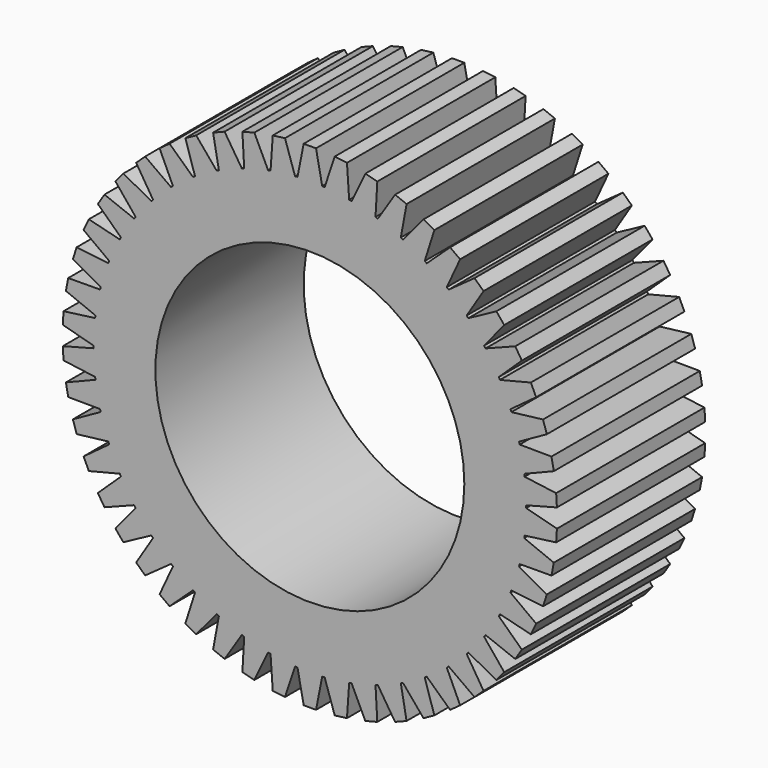
from build123d import *

# Parameters (mm, degrees)
F1_DEPTH = 15
F2_R     = 12.5
F3_DEPTH = 15.001


with BuildPart() as f1:
    # F0 (on Front) → F1 (new body)
    with BuildSketch(Plane.XZ):
        with BuildLine():
            ThreePointArc((17.499716, -0.099625), (17.499929, -0.049813), (17.5, 0))
            ThreePointArc((17.5, 0), (17.499929, 0.049813), (17.499716, 0.099625))
            ThreePointArc((17.499716, 0.099625), (17.465468, 1.098834), (17.374212, 2.094457))
            ThreePointArc((17.374212, 2.094457), (17.362007, 2.193332), (17.34924, 2.292135))
            ThreePointArc((17.34924, 2.292135), (17.190027, 3.279173), (16.974706, 4.255508))
            ThreePointArc((16.974706, 4.255508), (16.950205, 4.352073), (16.925155, 4.448497))
            ThreePointArc((16.925155, 4.448497), (16.643489, 5.407797), (16.307499, 6.349446))
            ThreePointArc((16.307499, 6.349446), (16.271089, 6.44218), (16.23415, 6.534704))
            ThreePointArc((16.23415, 6.534704), (15.834473, 7.451138), (15.383113, 8.343251))
            ThreePointArc((15.383113, 8.343251), (15.335367, 8.430689), (15.287124, 8.517855))
            ThreePointArc((15.287124, 8.517855), (14.775739, 9.376969), (14.216126, 10.205477))
            ThreePointArc((14.216126, 10.205477), (14.157797, 10.286242), (14.09901, 10.366673))
            ThreePointArc((14.09901, 10.366673), (13.483982, 11.15492), (12.824942, 11.906757))
            ThreePointArc((12.824942, 11.906757), (12.756951, 11.979574), (12.688546, 12.052004))
            ThreePointArc((12.688546, 12.052004), (11.979574, 12.756951), (11.231501, 13.42026))
            ThreePointArc((11.231501, 13.42026), (11.15492, 13.483982), (11.077977, 13.547267))
            ThreePointArc((11.077977, 13.547267), (10.286242, 14.157797), (9.460933, 14.722118))
            ThreePointArc((9.460933, 14.722118), (9.376969, 14.775739), (9.292701, 14.828881))
            ThreePointArc((9.292701, 14.828881), (8.430689, 15.335367), (7.54116, 15.791799))
            ThreePointArc((7.54116, 15.791799), (7.451138, 15.834473), (7.360874, 15.876635))
            ThreePointArc((7.360874, 15.876635), (6.44218, 16.271089), (5.502459, 16.612434))
            ThreePointArc((5.502459, 16.612434), (5.407797, 16.643489), (5.312961, 16.674005))
            ThreePointArc((5.312961, 16.674005), (4.352073, 16.950205), (3.37698, 17.171081))
            ThreePointArc((3.37698, 17.171081), (3.279173, 17.190027), (3.18126, 17.208416))
            ThreePointArc((3.18126, 17.208416), (2.193332, 17.362007), (1.198245, 17.458929))
            ThreePointArc((1.198245, 17.458929), (1.098834, 17.465468), (0.999388, 17.47144))
            ThreePointArc((0.999388, 17.47144), (0, 17.5), (-0.999388, 17.47144))
            ThreePointArc((-0.999388, 17.47144), (-1.098834, 17.465468), (-1.198245, 17.458929))
            ThreePointArc((-1.198245, 17.458929), (-2.193332, 17.362007), (-3.18126, 17.208416))
            ThreePointArc((-3.18126, 17.208416), (-3.279173, 17.190027), (-3.37698, 17.171081))
            ThreePointArc((-3.37698, 17.171081), (-4.352073, 16.950205), (-5.312961, 16.674005))
            ThreePointArc((-5.312961, 16.674005), (-5.407797, 16.643489), (-5.502459, 16.612434))
            ThreePointArc((-5.502459, 16.612434), (-6.44218, 16.271089), (-7.360874, 15.876635))
            ThreePointArc((-7.360874, 15.876635), (-7.451138, 15.834473), (-7.54116, 15.791799))
            ThreePointArc((-7.54116, 15.791799), (-8.430689, 15.335367), (-9.292701, 14.828881))
            ThreePointArc((-9.292701, 14.828881), (-9.376969, 14.775739), (-9.460933, 14.722118))
            ThreePointArc((-9.460933, 14.722118), (-10.286242, 14.157797), (-11.077977, 13.547267))
            ThreePointArc((-11.077977, 13.547267), (-11.15492, 13.483982), (-11.231501, 13.42026))
            ThreePointArc((-11.231501, 13.42026), (-11.979574, 12.756951), (-12.688546, 12.052004))
            ThreePointArc((-12.688546, 12.052004), (-12.756951, 11.979574), (-12.824942, 11.906757))
            ThreePointArc((-12.824942, 11.906757), (-13.483982, 11.15492), (-14.09901, 10.366673))
            ThreePointArc((-14.09901, 10.366673), (-14.157797, 10.286242), (-14.216126, 10.205477))
            ThreePointArc((-14.216126, 10.205477), (-14.775739, 9.376969), (-15.287124, 8.517855))
            ThreePointArc((-15.287124, 8.517855), (-15.335367, 8.430689), (-15.383113, 8.343251))
            ThreePointArc((-15.383113, 8.343251), (-15.834473, 7.451138), (-16.23415, 6.534704))
            ThreePointArc((-16.23415, 6.534704), (-16.271089, 6.44218), (-16.307499, 6.349446))
            ThreePointArc((-16.307499, 6.349446), (-16.643489, 5.407797), (-16.925155, 4.448497))
            ThreePointArc((-16.925155, 4.448497), (-16.950205, 4.352073), (-16.974706, 4.255508))
            ThreePointArc((-16.974706, 4.255508), (-17.190027, 3.279173), (-17.34924, 2.292135))
            ThreePointArc((-17.34924, 2.292135), (-17.362007, 2.193332), (-17.374212, 2.094457))
            ThreePointArc((-17.374212, 2.094457), (-17.465468, 1.098834), (-17.499716, 0.099625))
            ThreePointArc((-17.499716, 0.099625), (-17.5, 0), (-17.499716, -0.099625))
            ThreePointArc((-17.499716, -0.099625), (-17.465468, -1.098834), (-17.374212, -2.094457))
            ThreePointArc((-17.374212, -2.094457), (-17.362007, -2.193332), (-17.34924, -2.292135))
            ThreePointArc((-17.34924, -2.292135), (-17.190027, -3.279173), (-16.974706, -4.255508))
            ThreePointArc((-16.974706, -4.255508), (-16.950205, -4.352073), (-16.925155, -4.448497))
            ThreePointArc((-16.925155, -4.448497), (-16.643489, -5.407797), (-16.307499, -6.349446))
            ThreePointArc((-16.307499, -6.349446), (-16.271089, -6.44218), (-16.23415, -6.534704))
            ThreePointArc((-16.23415, -6.534704), (-15.834473, -7.451138), (-15.383113, -8.343251))
            ThreePointArc((-15.383113, -8.343251), (-15.335367, -8.430689), (-15.287124, -8.517855))
            ThreePointArc((-15.287124, -8.517855), (-14.775739, -9.376969), (-14.216126, -10.205477))
            ThreePointArc((-14.216126, -10.205477), (-14.157797, -10.286242), (-14.09901, -10.366673))
            ThreePointArc((-14.09901, -10.366673), (-13.483982, -11.15492), (-12.824942, -11.906757))
            ThreePointArc((-12.824942, -11.906757), (-12.756951, -11.979574), (-12.688546, -12.052004))
            ThreePointArc((-12.688546, -12.052004), (-11.979574, -12.756951), (-11.231501, -13.42026))
            ThreePointArc((-11.231501, -13.42026), (-11.15492, -13.483982), (-11.077977, -13.547267))
            ThreePointArc((-11.077977, -13.547267), (-10.286242, -14.157797), (-9.460933, -14.722118))
            ThreePointArc((-9.460933, -14.722118), (-9.376969, -14.775739), (-9.292701, -14.828881))
            ThreePointArc((-9.292701, -14.828881), (-8.430689, -15.335367), (-7.54116, -15.791799))
            ThreePointArc((-7.54116, -15.791799), (-7.451138, -15.834473), (-7.360874, -15.876635))
            ThreePointArc((-7.360874, -15.876635), (-6.44218, -16.271089), (-5.502459, -16.612434))
            ThreePointArc((-5.502459, -16.612434), (-5.407797, -16.643489), (-5.312961, -16.674005))
            ThreePointArc((-5.312961, -16.674005), (-4.352073, -16.950205), (-3.37698, -17.171081))
            ThreePointArc((-3.37698, -17.171081), (-3.279173, -17.190027), (-3.18126, -17.208416))
            ThreePointArc((-3.18126, -17.208416), (-2.193332, -17.362007), (-1.198245, -17.458929))
            ThreePointArc((-1.198245, -17.458929), (-1.098834, -17.465468), (-0.999388, -17.47144))
            ThreePointArc((-0.999388, -17.47144), (0, -17.5), (0.999388, -17.47144))
            ThreePointArc((0.999388, -17.47144), (1.098834, -17.465468), (1.198245, -17.458929))
            ThreePointArc((1.198245, -17.458929), (2.193332, -17.362007), (3.18126, -17.208416))
            ThreePointArc((3.18126, -17.208416), (3.279173, -17.190027), (3.37698, -17.171081))
            ThreePointArc((3.37698, -17.171081), (4.352073, -16.950205), (5.312961, -16.674005))
            ThreePointArc((5.312961, -16.674005), (5.407797, -16.643489), (5.502459, -16.612434))
            ThreePointArc((5.502459, -16.612434), (6.44218, -16.271089), (7.360874, -15.876635))
            ThreePointArc((7.360874, -15.876635), (7.451138, -15.834473), (7.54116, -15.791799))
            ThreePointArc((7.54116, -15.791799), (8.430689, -15.335367), (9.292701, -14.828881))
            ThreePointArc((9.292701, -14.828881), (9.376969, -14.775739), (9.460933, -14.722118))
            ThreePointArc((9.460933, -14.722118), (10.286242, -14.157797), (11.077977, -13.547267))
            ThreePointArc((11.077977, -13.547267), (11.15492, -13.483982), (11.231501, -13.42026))
            ThreePointArc((11.231501, -13.42026), (11.979574, -12.756951), (12.688546, -12.052004))
            ThreePointArc((12.688546, -12.052004), (12.756951, -11.979574), (12.824942, -11.906757))
            ThreePointArc((12.824942, -11.906757), (13.483982, -11.15492), (14.09901, -10.366673))
            ThreePointArc((14.09901, -10.366673), (14.157797, -10.286242), (14.216126, -10.205477))
            ThreePointArc((14.216126, -10.205477), (14.775739, -9.376969), (15.287124, -8.517855))
            ThreePointArc((15.287124, -8.517855), (15.335367, -8.430689), (15.383113, -8.343251))
            ThreePointArc((15.383113, -8.343251), (15.834473, -7.451138), (16.23415, -6.534704))
            ThreePointArc((16.23415, -6.534704), (16.271089, -6.44218), (16.307499, -6.349446))
            ThreePointArc((16.307499, -6.349446), (16.643489, -5.407797), (16.925155, -4.448497))
            ThreePointArc((16.925155, -4.448497), (16.950205, -4.352073), (16.974706, -4.255508))
            ThreePointArc((16.974706, -4.255508), (17.190027, -3.279173), (17.34924, -2.292135))
            ThreePointArc((17.34924, -2.292135), (17.362007, -2.193332), (17.374212, -2.094457))
            ThreePointArc((17.374212, -2.094457), (17.465468, -1.098834), (17.499716, -0.099625))
        make_face()
        with BuildLine():
            ThreePointArc((17.374212, 2.094457), (17.465468, 1.098834), (17.499716, 0.099625))
            Line((17.499716, 0.099625), (19.99193, 0.756797))
            Line((19.99193, 0.756797), (19.929139, 1.754824))
            Line((19.929139, 1.754824), (17.374212, 2.094457))
        make_face()
        with BuildLine():
            Line((19.99193, -0.756797), (17.499716, -0.099625))
            ThreePointArc((17.499716, -0.099625), (17.465468, -1.098834), (17.374212, -2.094457))
            Line((17.374212, -2.094457), (19.929139, -1.754824))
            Line((19.929139, -1.754824), (19.99193, -0.756797))
        make_face()
        with BuildLine():
            ThreePointArc((16.974706, 4.255508), (17.190027, 3.279173), (17.34924, 2.292135))
            Line((17.34924, 2.292135), (19.739436, 3.256483))
            Line((19.739436, 3.256483), (19.552054, 4.23877))
            Line((19.552054, 4.23877), (16.974706, 4.255508))
        make_face()
        with BuildLine():
            Line((19.739436, -3.256483), (17.34924, -2.292135))
            ThreePointArc((17.34924, -2.292135), (17.190027, -3.279173), (16.974706, -4.255508))
            Line((16.974706, -4.255508), (19.552054, -4.23877))
            Line((19.552054, -4.23877), (19.739436, -3.256483))
        make_face()
        with BuildLine():
            ThreePointArc((16.307499, 6.349446), (16.643489, 5.407797), (16.925155, 4.448497))
            Line((16.925155, 4.448497), (19.175639, 5.704812))
            Line((19.175639, 5.704812), (18.866622, 6.655868))
            Line((18.866622, 6.655868), (16.307499, 6.349446))
        make_face()
        with BuildLine():
            Line((19.175639, -5.704812), (16.925155, -4.448497))
            ThreePointArc((16.925155, -4.448497), (16.643489, -5.407797), (16.307499, -6.349446))
            Line((16.307499, -6.349446), (18.866622, -6.655868))
            Line((18.866622, -6.655868), (19.175639, -5.704812))
        make_face()
        with BuildLine():
            ThreePointArc((15.383113, 8.343251), (15.834473, 7.451138), (16.23415, 6.534704))
            Line((16.23415, 6.534704), (18.309431, 8.063172))
            Line((18.309431, 8.063172), (17.883651, 8.967999))
            Line((17.883651, 8.967999), (15.383113, 8.343251))
        make_face()
        with BuildLine():
            Line((18.309431, -8.063172), (16.23415, -6.534704))
            ThreePointArc((16.23415, -6.534704), (15.834473, -7.451138), (15.383113, -8.343251))
            Line((15.383113, -8.343251), (17.883651, -8.967999))
            Line((17.883651, -8.967999), (18.309431, -8.063172))
        make_face()
        with BuildLine():
            ThreePointArc((14.216126, 10.205477), (14.775739, 9.376969), (15.287124, 8.517855))
            Line((15.287124, 8.517855), (17.154472, 10.294372))
            Line((17.154472, 10.294372), (16.618645, 11.1387))
            Line((16.618645, 11.1387), (14.216126, 10.205477))
        make_face()
        with BuildLine():
            Line((17.154472, -10.294372), (15.287124, -8.517855))
            ThreePointArc((15.287124, -8.517855), (14.775739, -9.376969), (14.216126, -10.205477))
            Line((14.216126, -10.205477), (16.618645, -11.1387))
            Line((16.618645, -11.1387), (17.154472, -10.294372))
        make_face()
        with BuildLine():
            ThreePointArc((12.824942, 11.906757), (13.483982, 11.15492), (14.09901, 10.366673))
            Line((14.09901, 10.366673), (15.728977, 12.363223))
            Line((15.728977, 12.363223), (15.091553, 13.133736))
            Line((15.091553, 13.133736), (12.824942, 11.906757))
        make_face()
        with BuildLine():
            Line((15.728977, -12.363223), (14.09901, -10.366673))
            ThreePointArc((14.09901, -10.366673), (13.483982, -11.15492), (12.824942, -11.906757))
            Line((12.824942, -11.906757), (15.091553, -13.133736))
            Line((15.091553, -13.133736), (15.728977, -12.363223))
        make_face()
        with BuildLine():
            ThreePointArc((11.231501, 13.42026), (11.979574, 12.756951), (12.688546, 12.052004))
            Line((12.688546, 12.052004), (14.055426, 14.237099))
            Line((14.055426, 14.237099), (13.326458, 14.921646))
            Line((13.326458, 14.921646), (11.231501, 13.42026))
        make_face()
        with BuildLine():
            Line((14.055426, -14.237099), (12.688546, -12.052004))
            ThreePointArc((12.688546, -12.052004), (11.979574, -12.756951), (11.231501, -13.42026))
            Line((11.231501, -13.42026), (13.326458, -14.921646))
            Line((13.326458, -14.921646), (14.055426, -14.237099))
        make_face()
        with BuildLine():
            ThreePointArc((9.460933, 14.722118), (10.286242, 14.157797), (11.077977, 13.547267))
            Line((11.077977, 13.547267), (12.160214, 15.886447))
            Line((12.160214, 15.886447), (11.351197, 16.474233))
            Line((11.351197, 16.474233), (9.460933, 14.722118))
        make_face()
        with BuildLine():
            Line((12.160214, -15.886447), (11.077977, -13.547267))
            ThreePointArc((11.077977, -13.547267), (10.286242, -14.157797), (9.460933, -14.722118))
            Line((9.460933, -14.722118), (11.351197, -16.474233))
            Line((11.351197, -16.474233), (12.160214, -15.886447))
        make_face()
        with BuildLine():
            ThreePointArc((7.54116, 15.791799), (8.430689, 15.335367), (9.292701, 14.828881))
            Line((9.292701, 14.828881), (10.073227, 17.285257))
            Line((10.073227, 17.285257), (9.19692, 17.76701))
            Line((9.19692, 17.76701), (7.54116, 15.791799))
        make_face()
        with BuildLine():
            Line((10.073227, -17.285257), (9.292701, -14.828881))
            ThreePointArc((9.292701, -14.828881), (8.430689, -15.335367), (7.54116, -15.791799))
            Line((7.54116, -15.791799), (9.19692, -17.76701))
            Line((9.19692, -17.76701), (10.073227, -17.285257))
        make_face()
        with BuildLine():
            ThreePointArc((5.502459, 16.612434), (6.44218, 16.271089), (7.360874, 15.876635))
            Line((7.360874, 15.876635), (7.827379, 18.411467))
            Line((7.827379, 18.411467), (6.897603, 18.779592))
            Line((6.897603, 18.779592), (5.502459, 16.612434))
        make_face()
        with BuildLine():
            Line((7.827379, -18.411467), (7.360874, -15.876635))
            ThreePointArc((7.360874, -15.876635), (6.44218, -16.271089), (5.502459, -16.612434))
            Line((5.502459, -16.612434), (6.897603, -18.779592))
            Line((6.897603, -18.779592), (7.827379, -18.411467))
        make_face()
        with BuildLine():
            ThreePointArc((3.37698, 17.171081), (4.352073, 16.950205), (5.312961, 16.674005))
            Line((5.312961, 16.674005), (5.458089, 19.247318))
            Line((5.458089, 19.247318), (4.489506, 19.496008))
            Line((4.489506, 19.496008), (3.37698, 17.171081))
        make_face()
        with BuildLine():
            Line((5.458089, -19.247318), (5.312961, -16.674005))
            ThreePointArc((5.312961, -16.674005), (4.352073, -16.950205), (3.37698, -17.171081))
            Line((3.37698, -17.171081), (4.489506, -19.496008))
            Line((4.489506, -19.496008), (5.458089, -19.247318))
        make_face()
        with BuildLine():
            ThreePointArc((1.198245, 17.458929), (2.193332, 17.362007), (3.18126, 17.208416))
            Line((3.18126, 17.208416), (3.002722, 19.779627))
            Line((3.002722, 19.779627), (2.010607, 19.904961))
            Line((2.010607, 19.904961), (1.198245, 17.458929))
        make_face()
        with BuildLine():
            Line((3.002722, -19.779627), (3.18126, -17.208416))
            ThreePointArc((3.18126, -17.208416), (2.193332, -17.362007), (1.198245, -17.458929))
            Line((1.198245, -17.458929), (2.010607, -19.904961))
            Line((2.010607, -19.904961), (3.002722, -19.779627))
        make_face()
        with BuildLine():
            ThreePointArc((-0.999388, 17.47144), (0, 17.5), (0.999388, 17.47144))
            Line((0.999388, 17.47144), (0.5, 20))
            Line((0.5, 20), (-0.5, 20))
            Line((-0.5, 20), (-0.999388, 17.47144))
        make_face()
        with BuildLine():
            Line((0.5, -20), (0.999388, -17.47144))
            ThreePointArc((0.999388, -17.47144), (0, -17.5), (-0.999388, -17.47144))
            Line((-0.999388, -17.47144), (-0.5, -20))
            Line((-0.5, -20), (0.5, -20))
        make_face()
        with BuildLine():
            ThreePointArc((-3.18126, 17.208416), (-2.193332, 17.362007), (-1.198245, 17.458929))
            Line((-1.198245, 17.458929), (-2.010607, 19.904961))
            Line((-2.010607, 19.904961), (-3.002722, 19.779627))
            Line((-3.002722, 19.779627), (-3.18126, 17.208416))
        make_face()
        with BuildLine():
            Line((-2.010607, -19.904961), (-1.198245, -17.458929))
            ThreePointArc((-1.198245, -17.458929), (-2.193332, -17.362007), (-3.18126, -17.208416))
            Line((-3.18126, -17.208416), (-3.002722, -19.779627))
            Line((-3.002722, -19.779627), (-2.010607, -19.904961))
        make_face()
        with BuildLine():
            ThreePointArc((-5.312961, 16.674005), (-4.352073, 16.950205), (-3.37698, 17.171081))
            Line((-3.37698, 17.171081), (-4.489506, 19.496008))
            Line((-4.489506, 19.496008), (-5.458089, 19.247318))
            Line((-5.458089, 19.247318), (-5.312961, 16.674005))
        make_face()
        with BuildLine():
            Line((-4.489506, -19.496008), (-3.37698, -17.171081))
            ThreePointArc((-3.37698, -17.171081), (-4.352073, -16.950205), (-5.312961, -16.674005))
            Line((-5.312961, -16.674005), (-5.458089, -19.247318))
            Line((-5.458089, -19.247318), (-4.489506, -19.496008))
        make_face()
        with BuildLine():
            ThreePointArc((-7.360874, 15.876635), (-6.44218, 16.271089), (-5.502459, 16.612434))
            Line((-5.502459, 16.612434), (-6.897603, 18.779592))
            Line((-6.897603, 18.779592), (-7.827379, 18.411467))
            Line((-7.827379, 18.411467), (-7.360874, 15.876635))
        make_face()
        with BuildLine():
            Line((-6.897603, -18.779592), (-5.502459, -16.612434))
            ThreePointArc((-5.502459, -16.612434), (-6.44218, -16.271089), (-7.360874, -15.876635))
            Line((-7.360874, -15.876635), (-7.827379, -18.411467))
            Line((-7.827379, -18.411467), (-6.897603, -18.779592))
        make_face()
        with BuildLine():
            ThreePointArc((-9.292701, 14.828881), (-8.430689, 15.335367), (-7.54116, 15.791799))
            Line((-7.54116, 15.791799), (-9.19692, 17.76701))
            Line((-9.19692, 17.76701), (-10.073227, 17.285257))
            Line((-10.073227, 17.285257), (-9.292701, 14.828881))
        make_face()
        with BuildLine():
            Line((-9.19692, -17.76701), (-7.54116, -15.791799))
            ThreePointArc((-7.54116, -15.791799), (-8.430689, -15.335367), (-9.292701, -14.828881))
            Line((-9.292701, -14.828881), (-10.073227, -17.285257))
            Line((-10.073227, -17.285257), (-9.19692, -17.76701))
        make_face()
        with BuildLine():
            ThreePointArc((-11.077977, 13.547267), (-10.286242, 14.157797), (-9.460933, 14.722118))
            Line((-9.460933, 14.722118), (-11.351197, 16.474233))
            Line((-11.351197, 16.474233), (-12.160214, 15.886447))
            Line((-12.160214, 15.886447), (-11.077977, 13.547267))
        make_face()
        with BuildLine():
            Line((-11.351197, -16.474233), (-9.460933, -14.722118))
            ThreePointArc((-9.460933, -14.722118), (-10.286242, -14.157797), (-11.077977, -13.547267))
            Line((-11.077977, -13.547267), (-12.160214, -15.886447))
            Line((-12.160214, -15.886447), (-11.351197, -16.474233))
        make_face()
        with BuildLine():
            ThreePointArc((-12.688546, 12.052004), (-11.979574, 12.756951), (-11.231501, 13.42026))
            Line((-11.231501, 13.42026), (-13.326458, 14.921646))
            Line((-13.326458, 14.921646), (-14.055426, 14.237099))
            Line((-14.055426, 14.237099), (-12.688546, 12.052004))
        make_face()
        with BuildLine():
            Line((-13.326458, -14.921646), (-11.231501, -13.42026))
            ThreePointArc((-11.231501, -13.42026), (-11.979574, -12.756951), (-12.688546, -12.052004))
            Line((-12.688546, -12.052004), (-14.055426, -14.237099))
            Line((-14.055426, -14.237099), (-13.326458, -14.921646))
        make_face()
        with BuildLine():
            ThreePointArc((-14.09901, 10.366673), (-13.483982, 11.15492), (-12.824942, 11.906757))
            Line((-12.824942, 11.906757), (-15.091553, 13.133736))
            Line((-15.091553, 13.133736), (-15.728977, 12.363223))
            Line((-15.728977, 12.363223), (-14.09901, 10.366673))
        make_face()
        with BuildLine():
            Line((-15.091553, -13.133736), (-12.824942, -11.906757))
            ThreePointArc((-12.824942, -11.906757), (-13.483982, -11.15492), (-14.09901, -10.366673))
            Line((-14.09901, -10.366673), (-15.728977, -12.363223))
            Line((-15.728977, -12.363223), (-15.091553, -13.133736))
        make_face()
        with BuildLine():
            ThreePointArc((-15.287124, 8.517855), (-14.775739, 9.376969), (-14.216126, 10.205477))
            Line((-14.216126, 10.205477), (-16.618645, 11.1387))
            Line((-16.618645, 11.1387), (-17.154472, 10.294372))
            Line((-17.154472, 10.294372), (-15.287124, 8.517855))
        make_face()
        with BuildLine():
            Line((-16.618645, -11.1387), (-14.216126, -10.205477))
            ThreePointArc((-14.216126, -10.205477), (-14.775739, -9.376969), (-15.287124, -8.517855))
            Line((-15.287124, -8.517855), (-17.154472, -10.294372))
            Line((-17.154472, -10.294372), (-16.618645, -11.1387))
        make_face()
        with BuildLine():
            ThreePointArc((-16.23415, 6.534704), (-15.834473, 7.451138), (-15.383113, 8.343251))
            Line((-15.383113, 8.343251), (-17.883651, 8.967999))
            Line((-17.883651, 8.967999), (-18.309431, 8.063172))
            Line((-18.309431, 8.063172), (-16.23415, 6.534704))
        make_face()
        with BuildLine():
            Line((-17.883651, -8.967999), (-15.383113, -8.343251))
            ThreePointArc((-15.383113, -8.343251), (-15.834473, -7.451138), (-16.23415, -6.534704))
            Line((-16.23415, -6.534704), (-18.309431, -8.063172))
            Line((-18.309431, -8.063172), (-17.883651, -8.967999))
        make_face()
        with BuildLine():
            ThreePointArc((-16.925155, 4.448497), (-16.643489, 5.407797), (-16.307499, 6.349446))
            Line((-16.307499, 6.349446), (-18.866622, 6.655868))
            Line((-18.866622, 6.655868), (-19.175639, 5.704812))
            Line((-19.175639, 5.704812), (-16.925155, 4.448497))
        make_face()
        with BuildLine():
            Line((-18.866622, -6.655868), (-16.307499, -6.349446))
            ThreePointArc((-16.307499, -6.349446), (-16.643489, -5.407797), (-16.925155, -4.448497))
            Line((-16.925155, -4.448497), (-19.175639, -5.704812))
            Line((-19.175639, -5.704812), (-18.866622, -6.655868))
        make_face()
        with BuildLine():
            ThreePointArc((-17.34924, 2.292135), (-17.190027, 3.279173), (-16.974706, 4.255508))
            Line((-16.974706, 4.255508), (-19.552054, 4.23877))
            Line((-19.552054, 4.23877), (-19.739436, 3.256483))
            Line((-19.739436, 3.256483), (-17.34924, 2.292135))
        make_face()
        with BuildLine():
            Line((-19.552054, -4.23877), (-16.974706, -4.255508))
            ThreePointArc((-16.974706, -4.255508), (-17.190027, -3.279173), (-17.34924, -2.292135))
            Line((-17.34924, -2.292135), (-19.739436, -3.256483))
            Line((-19.739436, -3.256483), (-19.552054, -4.23877))
        make_face()
        with BuildLine():
            ThreePointArc((-17.499716, 0.099625), (-17.465468, 1.098834), (-17.374212, 2.094457))
            Line((-17.374212, 2.094457), (-19.929139, 1.754824))
            Line((-19.929139, 1.754824), (-19.99193, 0.756797))
            Line((-19.99193, 0.756797), (-17.499716, 0.099625))
        make_face()
        with BuildLine():
            Line((-19.929139, -1.754824), (-17.374212, -2.094457))
            ThreePointArc((-17.374212, -2.094457), (-17.465468, -1.098834), (-17.499716, -0.099625))
            Line((-17.499716, -0.099625), (-19.99193, -0.756797))
            Line((-19.99193, -0.756797), (-19.929139, -1.754824))
        make_face()
    extrude(amount=F1_DEPTH)

    # F2 (on face) → F3 (cut, through all)
    with BuildSketch(Plane.XZ.offset(15)):
        Circle(F2_R)
    extrude(amount=-F3_DEPTH, mode=Mode.SUBTRACT)


solid = f1.part
